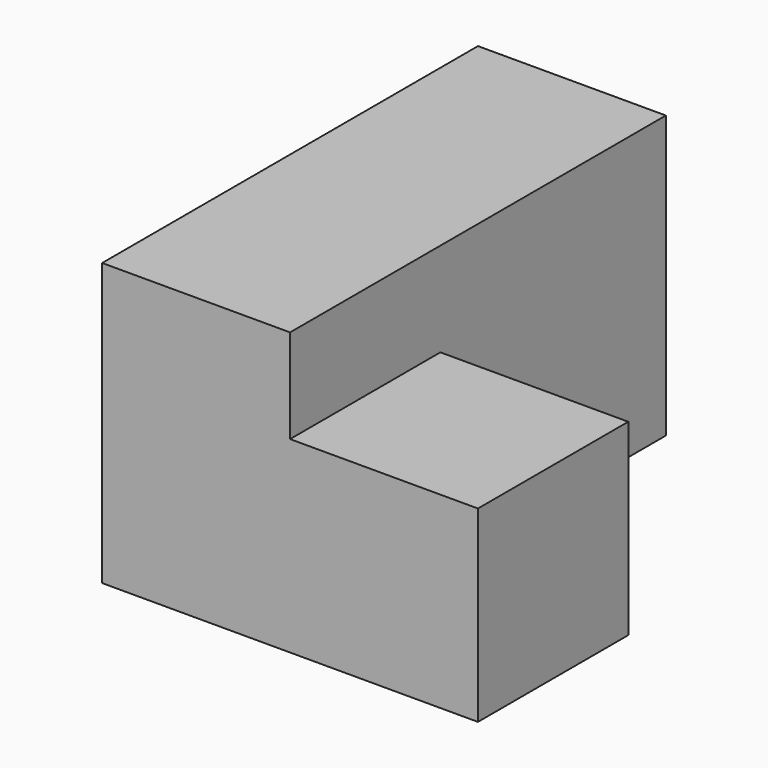
from build123d import *

# Parameters (mm, degrees)
BOX001_W     = 10
BOX001_H     = 10
BOX001_DEPTH = 10
BOX_W        = 10
BOX_H        = 25
BOX_DEPTH    = 15


with BuildPart() as box001:
    # Box001 → Box001 (new body)
    with BuildSketch(Plane(origin=(10, 0, 0), x_dir=(1, 0, 0), z_dir=(0, 0, 1))):
        with Locations((5, 5)):
            Rectangle(BOX001_W, BOX001_H)
    extrude(amount=BOX001_DEPTH)


with BuildPart() as fusion001:
    # Box → Box (new body)
    with BuildSketch(Plane.XY):
        with Locations((5, 12.5)):
            Rectangle(BOX_W, BOX_H)
    extrude(amount=BOX_DEPTH)

    # Fusion: union Box001
    add(box001.part)


solid = fusion001.part
